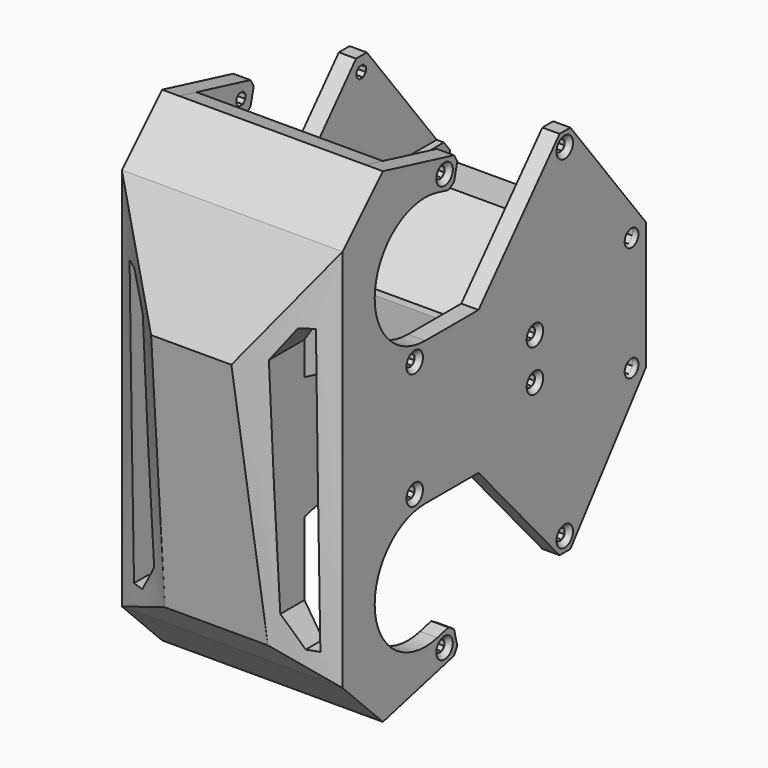
from build123d import *

# Parameters (mm, degrees)
SKETCH_R        = 1
SKETCH_R_2      = 1.5
PAD_DEPTH       = 3
SKETCH001_R     = 1.5
PAD001_DEPTH    = 32.5
SKETCH002_R     = 1
SKETCH002_R_2   = 1.5
PAD002_DEPTH    = 3
SKETCH004_W     = 67
SKETCH004_H     = 38.5
POCKET_DEPTH    = 40
POCKET001_DEPTH = 30
POCKET002_DEPTH = 36.5
CHAMFER_SIZE    = 0.8
CHAMFER001_SIZE = 1
CHAMFER002_SIZE = 5


with BuildPart() as part:
    # Sketch → Pad (new body)
    with BuildSketch(Plane.YZ):
        with BuildLine():
            ThreePointArc((2.6512434502, 34.1757158152), (-10.9186279808, 24.8355010356), (0, 12.5))
            Line((0, 12.5), (11.6289393522, 12.5))
            Line((11.6289393522, 12.5), (29.3069738401, 32.3533951727))
            Line((29.3069738401, 32.3533951727), (31.6517632977, 32.3533951727))
            Line((48.1754264805, 11.0887051507), (31.6517632977, 32.3533951727))
            Line((48.1754264805, 11.0887051507), (48.1754264805, -11.0887051507))
            Line((48.1754264805, -11.0887051507), (31.6517632977, -32.3533951727))
            Line((29.3069738401, -32.3533951727), (31.6517632977, -32.3533951727))
            Line((11.6289393522, -12.5), (29.3069738401, -32.3533951727))
            Line((0, -12.5), (11.6289393522, -12.5))
            ThreePointArc((0, -12.5), (-10.9186279808, -24.8355010356), (2.6512434502, -34.1757158152))
            Line((6.0480621187, -33.3321383538), (2.6512434502, -34.1757158152))
            Line((7.2531727779, -38.1847364517), (6.0480621187, -33.3321383538))
            Line((-9.2234125113, -42.2765874887), (7.2531727779, -38.1847364517))
            Line((-18, -33.5), (-9.2234125113, -42.2765874887))
            Line((-18, 33.5), (-18, -33.5))
            Line((-9.2234125113, 42.2765874887), (-18, 33.5))
            Line((-9.2234125113, 42.2765874887), (7.2531727779, 38.1847364517))
            Line((7.2531727779, 38.1847364517), (6.0480621187, 33.3321383538))
            Line((6.0480621187, 33.3321383538), (2.6512434502, 34.1757158152))
        make_face()
        with Locations((4.2243183994, 36.3609927323)):
            Circle(SKETCH_R, mode=Mode.SUBTRACT)
        with Locations((-2.2832791602, 10.156963004)):
            Circle(SKETCH_R, mode=Mode.SUBTRACT)
        with Locations((23.9207505681, 3.6493654444)):
            Circle(SKETCH_R, mode=Mode.SUBTRACT)
        with Locations((30.4283481277, 29.8533951727)):
            Circle(SKETCH_R, mode=Mode.SUBTRACT)
        with Locations((-2.2832791602, -10.156963004)):
            Circle(SKETCH_R, mode=Mode.SUBTRACT)
        with Locations((4.2243183994, -36.3609927323)):
            Circle(SKETCH_R, mode=Mode.SUBTRACT)
        with Locations((30.4283481277, -29.8533951727)):
            Circle(SKETCH_R, mode=Mode.SUBTRACT)
        with Locations((23.9207505681, -3.6493654444)):
            Circle(SKETCH_R, mode=Mode.SUBTRACT)
        with Locations((45, 10)):
            Circle(SKETCH_R_2, mode=Mode.SUBTRACT)
        with Locations((45, -10)):
            Circle(SKETCH_R_2, mode=Mode.SUBTRACT)
    extrude(amount=-PAD_DEPTH)

    # Sketch001 (on Face31 of Pad) → Pad001 (join)
    with BuildSketch(Plane.YZ):
        Polygon((-9.2234125113, 42.2765874887), (-18, 33.5), (-18, -33.5), (-9.2234125113, -42.2765874887), (-5.486078489, -41.3484452901), (-16, -30.8345237792), (-16, -10.7298862993), (23.584387075, -0.8993654444), (25.0598378646, -0.8993654444), (36.9104724202, -12.75), (46.8845223334, -12.75), (48.1754264805, -11.0887051507), (48.1754264805, 11.0887051507), (46.8845223334, 12.75), (36.9104724202, 12.75), (25.0598378646, 0.8993654444), (23.584387075, 0.8993654444), (-16, 10.7298862993), (-16, 30.8345237792), (-5.486078489, 41.3484452901), align=None)
        with Locations((45, -10)):
            Circle(SKETCH001_R, mode=Mode.SUBTRACT)
        with Locations((45, 10)):
            Circle(SKETCH001_R, mode=Mode.SUBTRACT)
    extrude(amount=PAD001_DEPTH)

    # Sketch002 (on Face11 of Pad001) → Pad002 (join)
    with BuildSketch(Plane.YZ.offset(32.5)):
        with BuildLine():
            ThreePointArc((2.6512434502, 34.1757158152), (-10.9186279808, 24.8355010356), (0, 12.5))
            Line((0, 12.5), (11.6289393522, 12.5))
            Line((11.6289393522, 12.5), (29.3069738401, 32.3533951727))
            Line((29.3069738401, 32.3533951727), (31.6517632977, 32.3533951727))
            Line((48.1754264805, 11.0887051507), (31.6517632977, 32.3533951727))
            Line((48.1754264805, 11.0887051507), (48.1754264805, -11.0887051507))
            Line((48.1754264805, -11.0887051507), (31.6517632977, -32.3533951727))
            Line((29.3069738401, -32.3533951727), (31.6517632977, -32.3533951727))
            Line((11.6289393522, -12.5), (29.3069738401, -32.3533951727))
            Line((0, -12.5), (11.6289393522, -12.5))
            ThreePointArc((0, -12.5), (-10.9186279808, -24.8355010356), (2.6512434502, -34.1757158152))
            Line((6.0480621187, -33.3321383538), (2.6512434502, -34.1757158152))
            Line((7.2531727779, -38.1847364517), (6.0480621187, -33.3321383538))
            Line((-9.2234125113, -42.2765874887), (7.2531727779, -38.1847364517))
            Line((-18, -33.5), (-9.2234125113, -42.2765874887))
            Line((-18, 33.5), (-18, -33.5))
            Line((-9.2234125113, 42.2765874887), (-18, 33.5))
            Line((-9.2234125113, 42.2765874887), (7.2531727779, 38.1847364517))
            Line((7.2531727779, 38.1847364517), (6.0480621187, 33.3321383538))
            Line((6.0480621187, 33.3321383538), (2.6512434502, 34.1757158152))
        make_face()
        with Locations((4.2243183994, 36.3609927323)):
            Circle(SKETCH002_R, mode=Mode.SUBTRACT)
        with Locations((-2.2832791602, 10.156963004)):
            Circle(SKETCH002_R, mode=Mode.SUBTRACT)
        with Locations((23.9207505681, 3.6493654444)):
            Circle(SKETCH002_R, mode=Mode.SUBTRACT)
        with Locations((30.4283481277, 29.8533951727)):
            Circle(SKETCH002_R, mode=Mode.SUBTRACT)
        with Locations((-2.2832791602, -10.156963004)):
            Circle(SKETCH002_R, mode=Mode.SUBTRACT)
        with Locations((4.2243183994, -36.3609927323)):
            Circle(SKETCH002_R, mode=Mode.SUBTRACT)
        with Locations((30.4283481277, -29.8533951727)):
            Circle(SKETCH002_R, mode=Mode.SUBTRACT)
        with Locations((23.9207505681, -3.6493654444)):
            Circle(SKETCH002_R, mode=Mode.SUBTRACT)
        with Locations((45, 10)):
            Circle(SKETCH002_R_2, mode=Mode.SUBTRACT)
        with Locations((45, -10)):
            Circle(SKETCH002_R_2, mode=Mode.SUBTRACT)
    extrude(amount=PAD002_DEPTH)

    # Sketch004 (on Face42 of Pad002) → AdditiveLoft section 0
    with BuildSketch(Plane(origin=(0, -18, 0), x_dir=(0, 0, -1), z_dir=(0, -1, 0))):
        with Locations((0, 16.25)):
            Rectangle(SKETCH004_W, SKETCH004_H)
    # Sketch005 (on Face42 of Pad002) → AdditiveLoft section 1
    with BuildSketch(Plane(origin=(0, -25, 0), x_dir=(0, 0.1218693434, -0.9925461516), z_dir=(0, -0.9925461516, -0.1218693434))):
        Polygon((-15.8966185162, 23.25), (29.1033814838, 25.25), (29.1033814838, 7.25), (-15.8966185162, 9.25), align=None)
    loft()

    # Sketch006 (on Face42 of Pad002) → Pocket (cut)
    with BuildSketch(Plane(origin=(0, -28, 0), x_dir=(0, 0, -1), z_dir=(0, -1, 0))):
        Polygon((-16.5, 27.25), (23.5, 27.25), (28.5, 30.5), (28.5, 32.5), (-21.5, 32.5), (-21.5, 30.5), align=None)
        Polygon((-16.5, 5.25), (23.5, 5.25), (28.5, 2), (28.5, 0), (-21.5, 0), (-21.5, 2), align=None)
    extrude(amount=-POCKET_DEPTH, mode=Mode.SUBTRACT)

    # Sketch003 (on Face11 of Pad001) → Pocket001 (cut)
    with BuildSketch(Plane.YZ.offset(31.25)):
        Polygon((43.4122867597, 12.75), (41.8245735195, 10), (43.4122867597, 7.25), (46.5877132403, 7.25), (48.1754264805, 7.25), (48.1754264805, 11.0887051507), (46.8845223334, 12.75), (46.5877132403, 12.75), align=None)
        Polygon((43.4122867597, -7.25), (41.8245735195, -10), (43.4122867597, -12.75), (46.5877132403, -12.75), (46.8845223334, -12.75), (48.1754264805, -11.0887051507), (48.1754264805, -7.25), (46.5877132403, -7.25), align=None)
    extrude(amount=-POCKET001_DEPTH, mode=Mode.SUBTRACT)

    # Sketch007 (on Face45 of Pocket001) → Pocket002 (cut)
    with BuildSketch(Plane.YZ.offset(34.5)):
        Polygon((5.2243183994, 35.9467791699), (5.2243183994, 36.7752062947), (4.6385319617, 37.3609927323), (3.810104837, 37.3609927323), (3.2243183994, 36.7752062947), (3.2243183994, 35.9467791699), (3.810104837, 35.3609927323), (4.6385319617, 35.3609927323), align=None)
        Polygon((-1.8690655978, 9.156963004), (-1.2832791602, 9.7427494416), (-1.2832791602, 10.5711765664), (-1.8690655978, 11.156963004), (-2.6974927226, 11.156963004), (-3.2832791602, 10.5711765664), (-3.2832791602, 9.7427494416), (-2.6974927226, 9.156963004), align=None)
        Polygon((-1.2832791602, -10.5711765664), (-1.2832791602, -9.7427494416), (-1.8690655978, -9.156963004), (-2.6974927226, -9.156963004), (-3.2832791602, -9.7427494416), (-3.2832791602, -10.5711765664), (-2.6974927226, -11.156963004), (-1.8690655978, -11.156963004), align=None)
        Polygon((4.6385319617, -37.3609927323), (5.2243183994, -36.7752062947), (5.2243183994, -35.9467791699), (4.6385319617, -35.3609927323), (3.810104837, -35.3609927323), (3.2243183994, -35.9467791699), (3.2243183994, -36.7752062947), (3.810104837, -37.3609927323), align=None)
        Polygon((30.84256169, -30.8533951727), (31.4283481277, -30.2676087351), (31.4283481277, -29.4391816104), (30.84256169, -28.8533951727), (30.0141345653, -28.8533951727), (29.4283481277, -29.4391816104), (29.4283481277, -30.2676087351), (30.0141345653, -30.8533951727), align=None)
        Polygon((24.3349641305, -4.6493654444), (24.9207505681, -4.0635790068), (24.9207505681, -3.2351518821), (24.3349641305, -2.6493654444), (23.5065370057, -2.6493654444), (22.9207505681, -3.2351518821), (22.9207505681, -4.0635790068), (23.5065370057, -4.6493654444), align=None)
        Polygon((24.3349641305, 2.6493654444), (24.9207505681, 3.2351518821), (24.9207505681, 4.0635790068), (24.3349641305, 4.6493654444), (23.5065370057, 4.6493654444), (22.9207505681, 4.0635790068), (22.9207505681, 3.2351518821), (23.5065370057, 2.6493654444), align=None)
        Polygon((30.84256169, 28.8533951727), (31.4283481277, 29.4391816104), (31.4283481277, 30.2676087351), (30.84256169, 30.8533951727), (30.0141345653, 30.8533951727), (29.4283481277, 30.2676087351), (29.4283481277, 29.4391816104), (30.0141345653, 28.8533951727), align=None)
        Polygon((43.5, 10.6213203436), (43.5, 9.3786796564), (44.3786796564, 8.5), (45.6213203436, 8.5), (46.5, 9.3786796564), (46.5, 10.6213203436), (45.6213203436, 11.5), (44.3786796564, 11.5), align=None)
        Polygon((44.3786796564, -8.5), (43.5, -9.3786796564), (43.5, -10.6213203436), (44.3786796564, -11.5), (45.6213203436, -11.5), (46.5, -10.6213203436), (46.5, -9.3786796564), (45.6213203436, -8.5), align=None)
    extrude(amount=-POCKET002_DEPTH, mode=Mode.SUBTRACT)

    # Chamfer
    chamfer_edges = [part.edges().sort_by_distance(p)[0] for p in [
        (35.5, 3.224318, 36.360993),
        (35.5, -3.283279, 10.156963),
        (35.5, -3.283279, -10.156963),
        (35.5, 3.224318, -36.360993),
        (35.5, 29.428348, -29.853395),
        (35.5, 22.920751, -3.649365),
        (35.5, 22.920751, 3.649365),
        (35.5, 29.428348, 29.853395),
        (-3, 3.224318, 36.360993),
        (-3, 29.428348, 29.853395),
        (-3, 22.920751, 3.649365),
        (-3, 22.920751, -3.649365),
        (-3, 29.428348, -29.853395),
        (-3, -3.283279, -10.156963),
        (-3, -3.283279, 10.156963),
        (-3, 3.224318, -36.360993),
    ]]
    chamfer(chamfer_edges, length=CHAMFER_SIZE)

    # Chamfer001
    chamfer001_edges = [part.edges().sort_by_distance(p)[0] for p in [
        (34, 7.253173, 38.184736),
        (34, 6.048062, 33.332138),
        (-1.5, 7.253173, 38.184736),
        (-1.5, 6.048062, 33.332138),
        (34, 6.048062, -33.332138),
        (34, 7.253173, -38.184736),
        (-1.5, 6.048062, -33.332138),
        (-1.5, 7.253173, -38.184736),
    ]]
    chamfer(chamfer001_edges, length=CHAMFER001_SIZE)

    # Chamfer002
    chamfer002_edges = [part.edges().sort_by_distance(p)[0] for p in [
        (27.25, 12, 0),
        (5.25, 12, 0),
    ]]
    chamfer(chamfer002_edges, length=CHAMFER002_SIZE)


solid = part.part
